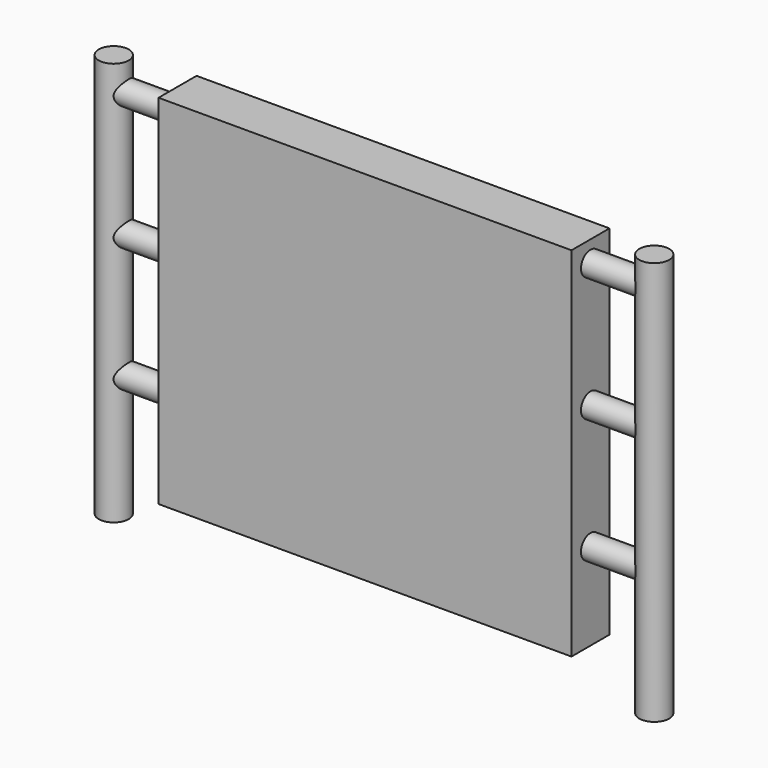
from build123d import *

# Parameters (mm, degrees)
BOX_W                       = 331.14
BOX_H                       = 38.1
BOX_DEPTH                   = 286.84
CYLINDER_R                  = 12
CYLINDER_DEPTH              = 323.85
CYLINDER001_R               = 9.525
CYLINDER001_DEPTH           = 50
CYLINDER001_PITCH_ANGLE     = 90
CYLINDER002_R               = 9.525
CYLINDER002_DEPTH           = 50
CYLINDER002_PITCH_ANGLE     = 90
CYLINDER003_R               = 9.525
CYLINDER003_DEPTH           = 50
CYLINDER003_PITCH_ANGLE     = 90
CYLINDER004_R               = 12
CYLINDER004_DEPTH           = 323.85
CYLINDER005_R               = 9.525
CYLINDER005_DEPTH           = 50
CYLINDER005_PITCH_ANGLE     = 90
CYLINDER005_PLACEMENT_ANGLE = -180
CYLINDER006_R               = 9.525
CYLINDER006_DEPTH           = 50
CYLINDER006_PITCH_ANGLE     = 90
CYLINDER006_PLACEMENT_ANGLE = -180
CYLINDER007_R               = 9.525
CYLINDER007_DEPTH           = 50
CYLINDER007_PITCH_ANGLE     = 90
CYLINDER007_PLACEMENT_ANGLE = -180


with BuildPart() as cube:
    # Box → Box (new body)
    with BuildSketch(Plane.XY):
        with Locations((165.57, 19.05)):
            Rectangle(BOX_W, BOX_H)
    extrude(amount=BOX_DEPTH)


with BuildPart() as cylinder:
    # Cylinder → Cylinder (new body)
    with BuildSketch(Plane(origin=(382.22179, 19.136739, -31.04026), x_dir=(1, 0, 0), z_dir=(0, 0, 1))):
        Circle(CYLINDER_R)
    extrude(amount=CYLINDER_DEPTH)


with BuildPart() as cylinder001:
    # Cylinder001 → Cylinder001 (new body)
    with BuildSketch(Plane.XY):
        Circle(CYLINDER001_R)
    extrude(amount=CYLINDER001_DEPTH)


with BuildPart() as cylinder001_1:
    # Cylinder001 pitch: moved
    add(cylinder001.part.rotate(Axis((0, 0, 0), (0, 1, 0)), CYLINDER001_PITCH_ANGLE))


with BuildPart() as cylinder001_2:
    # Cylinder001 placement: moved
    add(cylinder001_1.part.moved(Location((331.14, 19.05, 70))))


with BuildPart() as cylinder002:
    # Cylinder002 → Cylinder002 (new body)
    with BuildSketch(Plane.XY):
        Circle(CYLINDER002_R)
    extrude(amount=CYLINDER002_DEPTH)


with BuildPart() as cylinder002_1:
    # Cylinder002 pitch: moved
    add(cylinder002.part.rotate(Axis((0, 0, 0), (0, 1, 0)), CYLINDER002_PITCH_ANGLE))


with BuildPart() as cylinder002_2:
    # Cylinder002 placement: moved
    add(cylinder002_1.part.moved(Location((331.14, 19.05, 170))))


with BuildPart() as cylinder003:
    # Cylinder003 → Cylinder003 (new body)
    with BuildSketch(Plane.XY):
        Circle(CYLINDER003_R)
    extrude(amount=CYLINDER003_DEPTH)


with BuildPart() as cylinder003_1:
    # Cylinder003 pitch: moved
    add(cylinder003.part.rotate(Axis((0, 0, 0), (0, 1, 0)), CYLINDER003_PITCH_ANGLE))


with BuildPart() as cylinder003_2:
    # Cylinder003 placement: moved
    add(cylinder003_1.part.moved(Location((331.14, 19.05, 270))))


with BuildPart() as cylinder004:
    # Cylinder004 → Cylinder004 (new body)
    with BuildSketch(Plane(origin=(-51.02179, 18.863261, -31.04026), x_dir=(-1, 0, 0), z_dir=(0, 0, 1))):
        Circle(CYLINDER004_R)
    extrude(amount=CYLINDER004_DEPTH)


with BuildPart() as cylinder005:
    # Cylinder005 → Cylinder005 (new body)
    with BuildSketch(Plane.XY):
        Circle(CYLINDER005_R)
    extrude(amount=CYLINDER005_DEPTH)


with BuildPart() as cylinder005_1:
    # Cylinder005 pitch: moved
    add(cylinder005.part.rotate(Axis((0, 0, 0), (0, 1, 0)), CYLINDER005_PITCH_ANGLE))


with BuildPart() as cylinder005_2:
    # Cylinder005 placement: moved
    add(cylinder005_1.part.moved(Location((0.06, 18.95, 170))).rotate(Axis((0.06, 18.95, 170), (0, 0, 1)), CYLINDER005_PLACEMENT_ANGLE))


with BuildPart() as cylinder006:
    # Cylinder006 → Cylinder006 (new body)
    with BuildSketch(Plane.XY):
        Circle(CYLINDER006_R)
    extrude(amount=CYLINDER006_DEPTH)


with BuildPart() as cylinder006_1:
    # Cylinder006 pitch: moved
    add(cylinder006.part.rotate(Axis((0, 0, 0), (0, 1, 0)), CYLINDER006_PITCH_ANGLE))


with BuildPart() as cylinder006_2:
    # Cylinder006 placement: moved
    add(cylinder006_1.part.moved(Location((0.06, 18.95, 270))).rotate(Axis((0.06, 18.95, 270), (0, 0, 1)), CYLINDER006_PLACEMENT_ANGLE))


with BuildPart() as cylinder007:
    # Cylinder007 → Cylinder007 (new body)
    with BuildSketch(Plane.XY):
        Circle(CYLINDER007_R)
    extrude(amount=CYLINDER007_DEPTH)


with BuildPart() as cylinder007_1:
    # Cylinder007 pitch: moved
    add(cylinder007.part.rotate(Axis((0, 0, 0), (0, 1, 0)), CYLINDER007_PITCH_ANGLE))


with BuildPart() as cylinder007_2:
    # Cylinder007 placement: moved
    add(cylinder007_1.part.moved(Location((0.06, 18.95, 70))).rotate(Axis((0.06, 18.95, 70), (0, 0, 1)), CYLINDER007_PLACEMENT_ANGLE))


solid = Compound([cube.part, cylinder.part, cylinder001_2.part, cylinder002_2.part, cylinder003_2.part, cylinder004.part, cylinder005_2.part, cylinder006_2.part, cylinder007_2.part])
